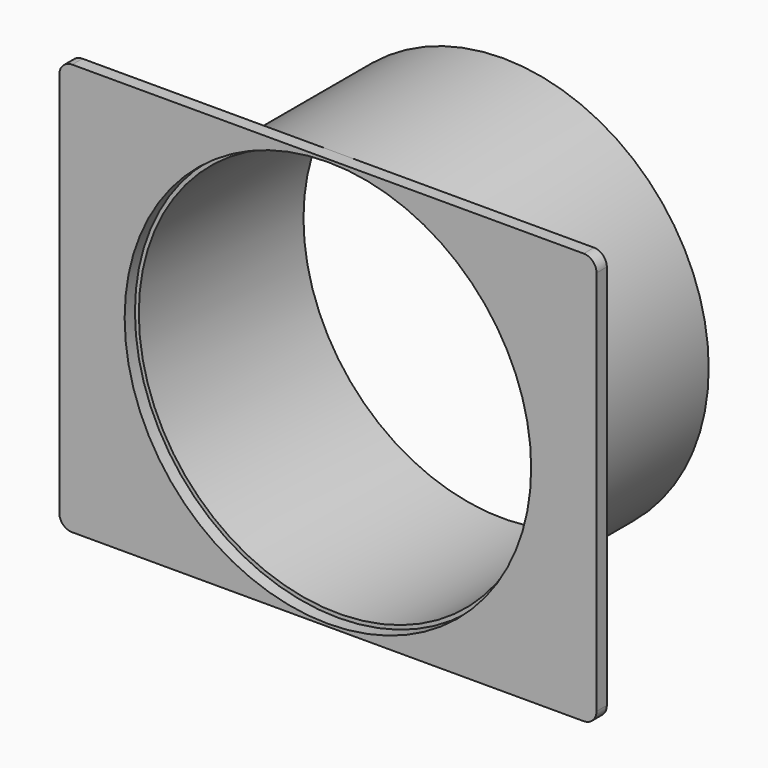
from build123d import *

# Parameters (mm, degrees)
F0_R     = 50.165
F1_DEPTH = 3.175
F2_R     = 50.8
F2_R_2   = 49.2125
F3_DEPTH = 50.8


with BuildPart() as f1:
    # F0 (on Front) → F1 (new body)
    with BuildSketch(Plane.XZ):
        with BuildLine():
            Line((63.119, 50.8), (-63.119, 50.8))
            ThreePointArc((-63.119, 50.8), (-65.364064, 49.870064), (-66.294, 47.625))
            Line((-66.294, 47.625), (-66.294, -47.625))
            ThreePointArc((-66.294, -47.625), (-65.364064, -49.870064), (-63.119, -50.8))
            Line((-63.119, -50.8), (63.119, -50.8))
            ThreePointArc((63.119, -50.8), (65.364064, -49.870064), (66.294, -47.625))
            Line((66.294, -47.625), (66.294, 47.625))
            ThreePointArc((66.294, 47.625), (65.364064, 49.870064), (63.119, 50.8))
        make_face()
        Circle(F0_R, mode=Mode.SUBTRACT)
    extrude(amount=F1_DEPTH)

    # F2 (on face) → F3 (join)
    with BuildSketch(Plane(origin=(0, 0, 0), x_dir=(-1, 0, 0), z_dir=(0, 1, 0))):
        Circle(F2_R)
        Circle(F2_R_2, mode=Mode.SUBTRACT)
    extrude(amount=F3_DEPTH)


solid = f1.part
